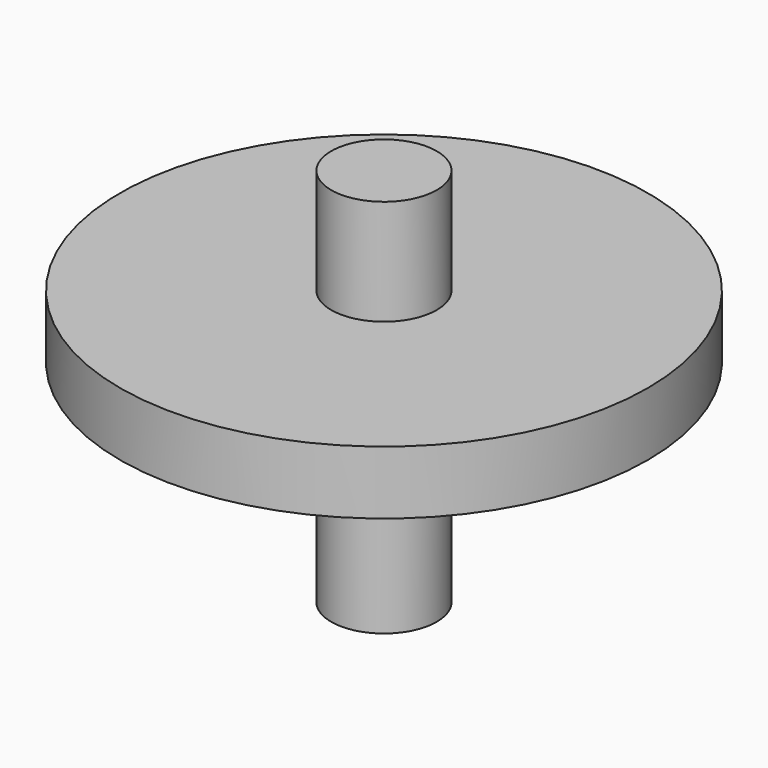
from build123d import *

# Parameters (mm, degrees)
F0_R          = 12.5
F0_R_2        = 2.5
F1_DEPTH      = 1.5
F1_DEPTH_BACK = 1.5
F2_DEPTH      = 6.5
F2_DEPTH_BACK = 11.5


with BuildPart() as f1:
    # F0 (on Top) → F1 (new body, two sides)
    with BuildSketch(Plane.XY) as f1_sk:
        Circle(F0_R)
        Circle(F0_R_2, mode=Mode.SUBTRACT)
    extrude(amount=F1_DEPTH)
    extrude(f1_sk.sketch, amount=-F1_DEPTH_BACK)

    # F0 (on Top) → F2 (join, two sides)
    with BuildSketch(Plane.XY) as f2_sk:
        Circle(F0_R_2)
    extrude(amount=F2_DEPTH)
    extrude(f2_sk.sketch, amount=-F2_DEPTH_BACK)


solid = f1.part
